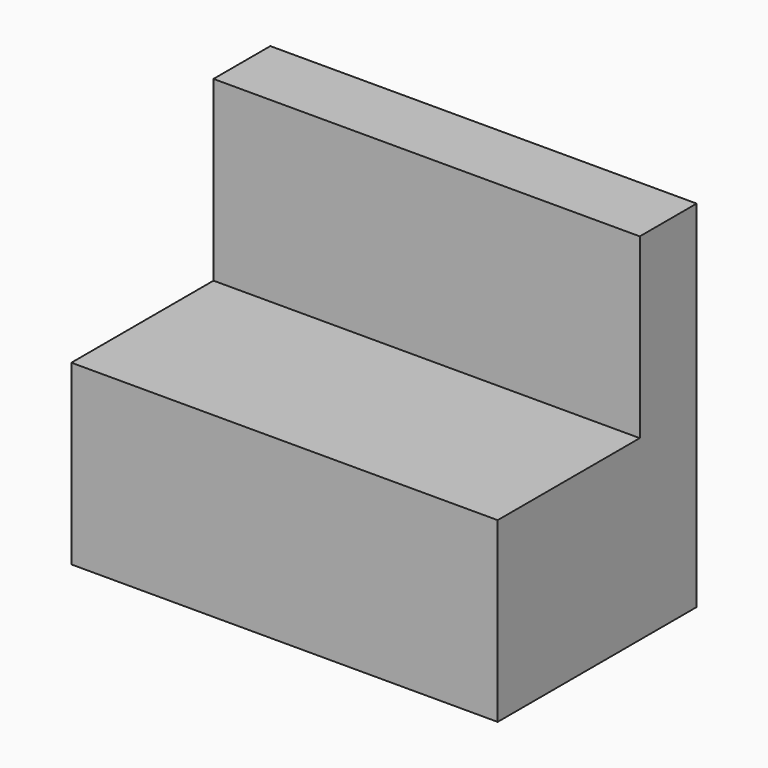
from build123d import *

# Parameters (mm, degrees)
F0_W     = 120
F0_H     = 70
F1_DEPTH = 50
F3_DEPTH = 50


with BuildPart() as f1:
    # F0 (on Top) → F1 (new body)
    with BuildSketch(Plane.XY):
        with Locations((-47.845394, -2.215056)):
            Rectangle(F0_W, F0_H)
    extrude(amount=F1_DEPTH)

    # F2 (on face) → F3 (join)
    with BuildSketch(Plane.XY.offset(50)):
        Polygon((-107.845394, 12.784944), (-92.845394, 12.784944), (12.154606, 12.784944), (12.154606, 32.784944), (-107.845394, 32.784944), align=None)
    extrude(amount=F3_DEPTH)


solid = f1.part
